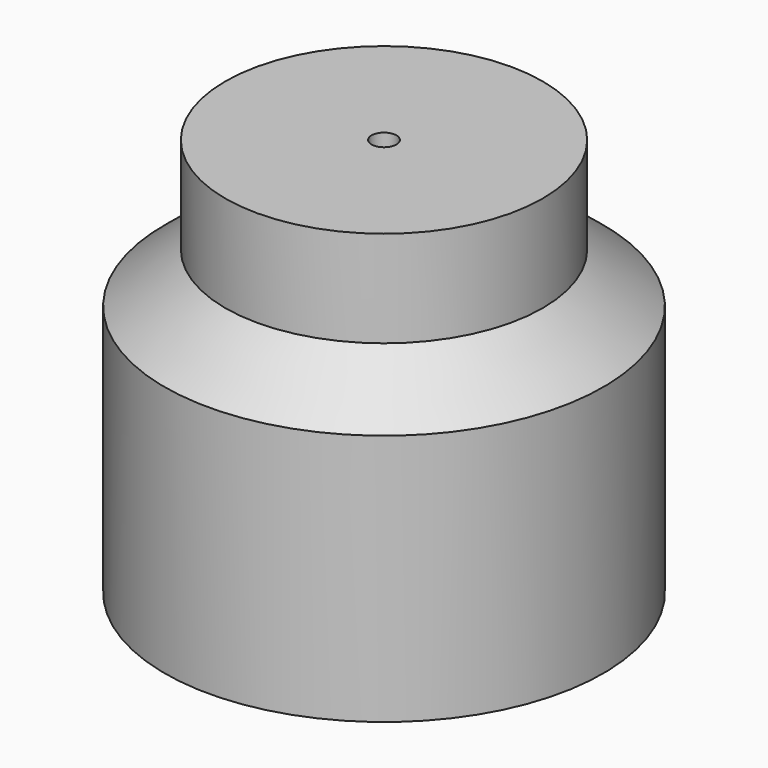
from build123d import *

# Parameters (mm, degrees)
F0_W   = 50.8
F0_H   = 33.506379
F0_W_2 = 76.2
F0_H_2 = 87.548942


with BuildPart() as f1:
    # F0 (on Right) → F1 (revolve)
    with BuildSketch(Plane.YZ):
        with Locations((-6.972096, 72.144307)):
            Rectangle(F0_W, F0_H)
        with Locations((1.404499, -5.676974)):
            Rectangle(F0_W_2, F0_H_2)
        Polygon((-32.372096, 55.391118), (-36.695501, 38.097497), (39.504499, 38.097497), (18.427904, 55.391118), align=None)
    revolve(axis=Axis((0, -36.695501, -5.676974), (0, 0, -1)))


solid = f1.part
